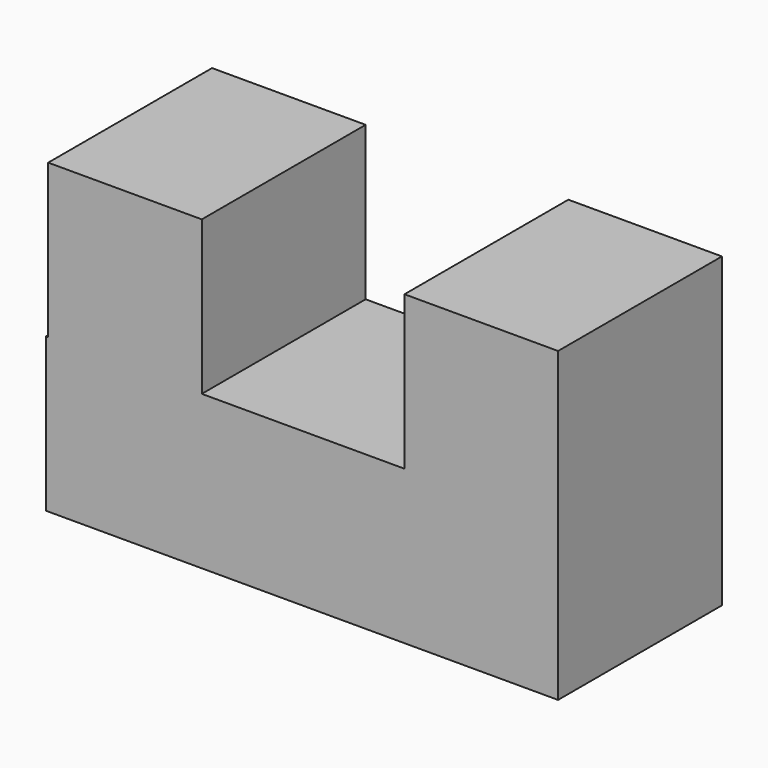
from build123d import *

# Parameters (mm, degrees)
F0_W     = 19.05
F0_H     = 19.05
F1_DEPTH = 12.7


with BuildPart() as f1:
    # F0 (on Front) → F1 (new body, symmetric)
    with BuildSketch(Plane.XZ):
        Polygon((-80.994893, 0), (-17.494893, 0), (-17.494893, 19.05), (-36.544893, 19.05), (-61.681053, 19.05), (-80.731053, 19.05), (-80.994893, 19.05), align=None)
        with Locations((-27.019893, 28.575)):
            Rectangle(F0_W, F0_H)
        with Locations((-71.206053, 28.575)):
            Rectangle(F0_W, F0_H)
    extrude(amount=F1_DEPTH, both=True)


solid = f1.part
